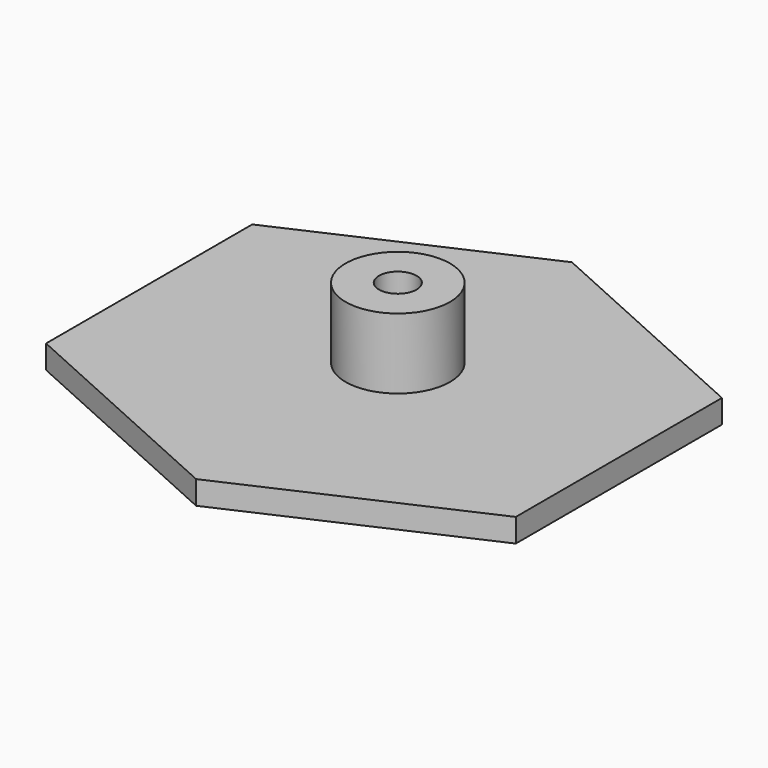
from build123d import *

# Parameters (mm, degrees)
F1_DEPTH = 2
F2_R     = 4.445875
F3_DEPTH = 6
F4_R     = 4.445875
F5_DEPTH = 3
F6_R     = 1.6
F7_DEPTH = 11.001


with BuildPart() as f1:
    # F0 (on Top) → F1 (new body)
    with BuildSketch(Plane.XY):
        Polygon((20, 9.5026303193), (0, 18.5309549122), (-20, 9.5026303193), (-20, -12.4407204949), (0, -21.4690450878), (20, -12.4407204949), align=None)
    extrude(amount=-F1_DEPTH)

    # F2 (on face) → F3 (join)
    with BuildSketch(Plane.XY):
        Circle(F2_R)
    extrude(amount=F3_DEPTH)

    # F4 (on face) → F5 (join)
    with BuildSketch(Plane(origin=(0, 0, -2), x_dir=(1, 0, 0), z_dir=(0, 0, -1))):
        Circle(F4_R)
    extrude(amount=F5_DEPTH)

    # F6 (on face) → F7 (cut, through all)
    with BuildSketch(Plane.XY.offset(6)):
        Circle(F6_R)
    extrude(amount=-F7_DEPTH, mode=Mode.SUBTRACT)


solid = f1.part
